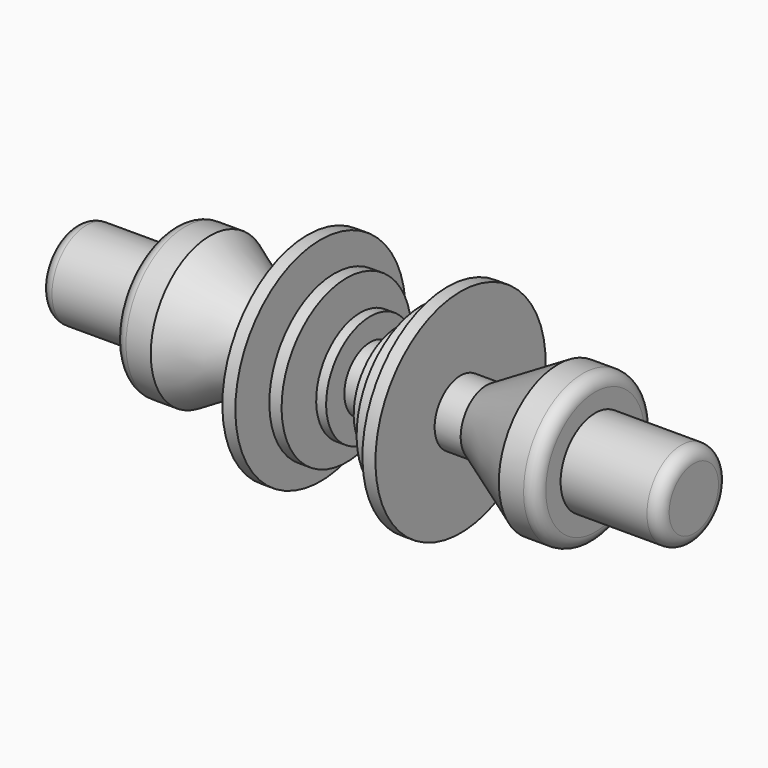
from build123d import *

# Parameters (mm, degrees)
F3_R = 5


with BuildPart() as f1:
    # F0 (on Front) → F1 (revolve)
    with BuildSketch(Plane.XZ):
        Polygon((0, 13.1249994196), (0, 0), (125.5859370285, 0), (125.5859370285, 17.5), (85.5859370285, 17.5), (85.5859370285, 30), (70.546875798, 30), (41.5774360299, 13.1249994196), (31.0279354453, 13.1249994196), (31.0279354453, 43.1288294494), (25.7531870157, 43.1288294494), (25.7531870157, 13.1249994196), (20.168159157, 13.1249994196), (20.168159157, 32.8896120191), (15.2036882937, 32.8896120191), (15.2036882937, 13.1249994196), (9.6186613664, 13.1249994196), (9.6186613664, 22.3401114345), (5.5850301869, 22.3401114345), (5.5850301869, 13.1249994196), align=None)
    revolve(axis=Axis((62.7929685142, 0, 0), (-1, 0, 0)))

    # F2: F1 across face


with BuildPart() as f1_1:
    add(f1.part)
    add(f1.part.mirror(Plane(origin=(0, 0, 0), x_dir=(0, -1, 0), z_dir=(-1, 0, 0))))

    # F3
    f3_edges = [f1_1.edges().sort_by_distance(p)[0] for p in [
        (-85.585937, 0, -30),
        (85.585937, 0, -30),
        (125.585937, 0, -17.5),
        (-125.585937, 0, -17.5),
    ]]
    fillet(f3_edges, radius=F3_R)


solid = f1_1.part
